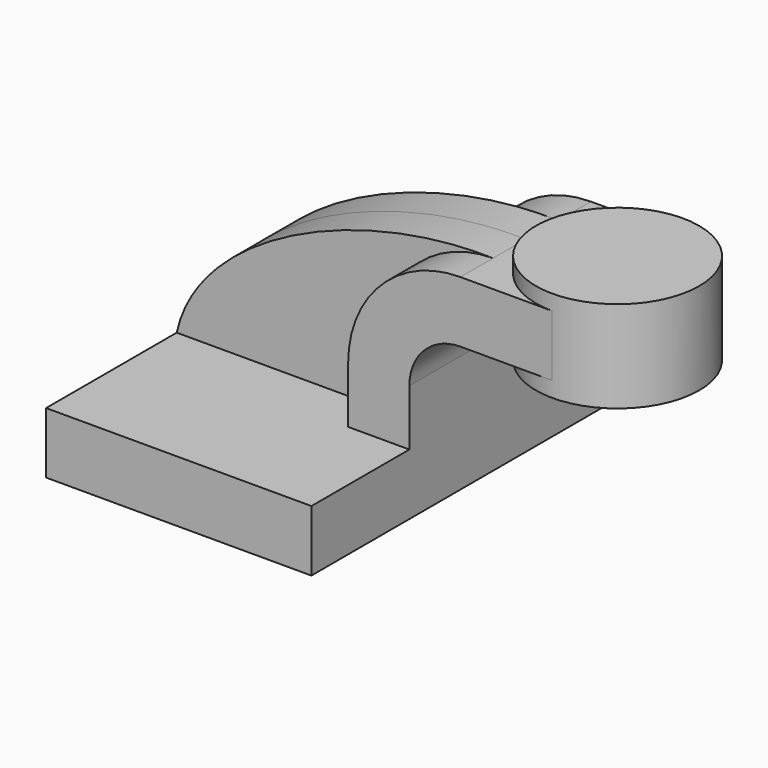
from build123d import *

# Parameters (mm, degrees)
F1_DEPTH = 63.5
F0_W     = 25.4
F0_H     = 19.05
F2_DEPTH = 25.4
F3_DEPTH = 12.7


with BuildPart() as f1:
    # F0 (on Front) → F1 (new body, symmetric)
    with BuildSketch(Plane.XZ):
        Polygon((-41.275, 9.525), (-41.275, -9.525), (41.275, -9.525), (41.275, 9.525), (22.225, 9.525), align=None)
    extrude(amount=F1_DEPTH, both=True)

    # F0 (on Front) → F2 (join, symmetric)
    with BuildSketch(Plane.XZ):
        with BuildLine():
            Line((22.225, 9.525), (41.275, 9.525))
            Line((41.275, 9.525), (41.275, 27.0002))
            ThreePointArc((41.275, 27.0002), (45.9246798487, 38.2255201513), (57.15, 42.8752))
            Line((57.15, 42.8752), (60.325, 42.8752))
            Line((60.325, 42.8752), (60.325, 61.9252))
            Line((60.325, 61.9252), (57.15, 61.9252))
            ThreePointArc((57.15, 61.9252), (32.4542956671, 51.6959043329), (22.225, 27.0002))
            Line((22.225, 27.0002), (22.225, 9.525))
        make_face()
        with Locations((73.025, 52.4002)):
            Rectangle(F0_W, F0_H)
    extrude(amount=F2_DEPTH, both=True)

    # F0 (on Front) → F3 (join, symmetric)
    with BuildSketch(Plane.XZ):
        with BuildLine():
            add(Edge.make_bspline(
                [(-41.275, 9.525), (-34.4864539802, 40.8513322473), (15.4615109786, 63.0318596959), (57.15, 61.9252)],
                knots=[0, 0, 0, 0, 111.5045361635, 111.5045361635, 111.5045361635, 111.5045361635], degree=3))
            Line((-41.275, 9.525), (22.225, 9.525))
            Line((22.225, 9.525), (22.225, 27.0002))
            ThreePointArc((22.225, 27.0002), (32.4542956671, 51.6959043329), (57.15, 61.9252))
        make_face()
    extrude(amount=F3_DEPTH, both=True)

    # F0 (on Front) → F4 (revolve)
    with BuildSketch(Plane.XZ):
        Polygon((85.725, 66.675), (85.725, 61.9252), (85.725, 42.8752), (85.725, 38.1), (111.125, 38.1), (111.125, 66.675), align=None)
    revolve(axis=Axis((85.725, 0, 52.3875), (0, 0, 1)))


solid = f1.part
